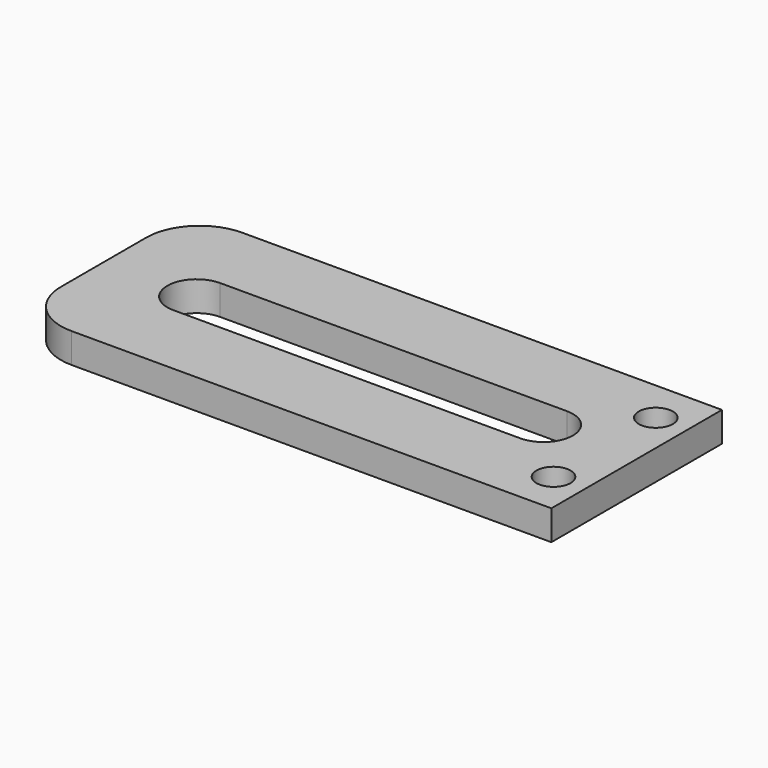
from build123d import *

# Parameters (mm, degrees)
F0_W     = 50
F0_H     = 20
F0_R     = 1.6
F1_DEPTH = 2.8
F2_R     = 5


with BuildPart() as f1:
    # F0 (on Top) → F1 (new body)
    with BuildSketch(Plane.XY):
        with Locations((3.811439, -38.038712)):
            Rectangle(F0_W, F0_H)
        with Locations((25.811439, -44.038712)):
            Circle(F0_R, mode=Mode.SUBTRACT)
        with BuildLine():
            ThreePointArc((-12.459394, -40.788712), (-15.209394, -38.038712), (-12.459394, -35.288712))
            Line((-12.459394, -35.288712), (20.082271, -35.288712))
            ThreePointArc((20.082271, -35.288712), (22.026815, -36.094168), (22.832271, -38.038712))
            ThreePointArc((22.832271, -38.038712), (22.026815, -39.983256), (20.082271, -40.788712))
            Line((20.082271, -40.788712), (-12.459394, -40.788712))
        make_face(mode=Mode.SUBTRACT)
        with Locations((25.811439, -32.038712)):
            Circle(F0_R, mode=Mode.SUBTRACT)
    extrude(amount=F1_DEPTH)

    # F2
    f2_edges = [f1.edges().sort_by_distance(p)[0] for p in [
        (-21.188561, -48.038712, 1.4),
        (-21.188561, -28.038712, 1.4),
    ]]
    fillet(f2_edges, radius=F2_R)


solid = f1.part
